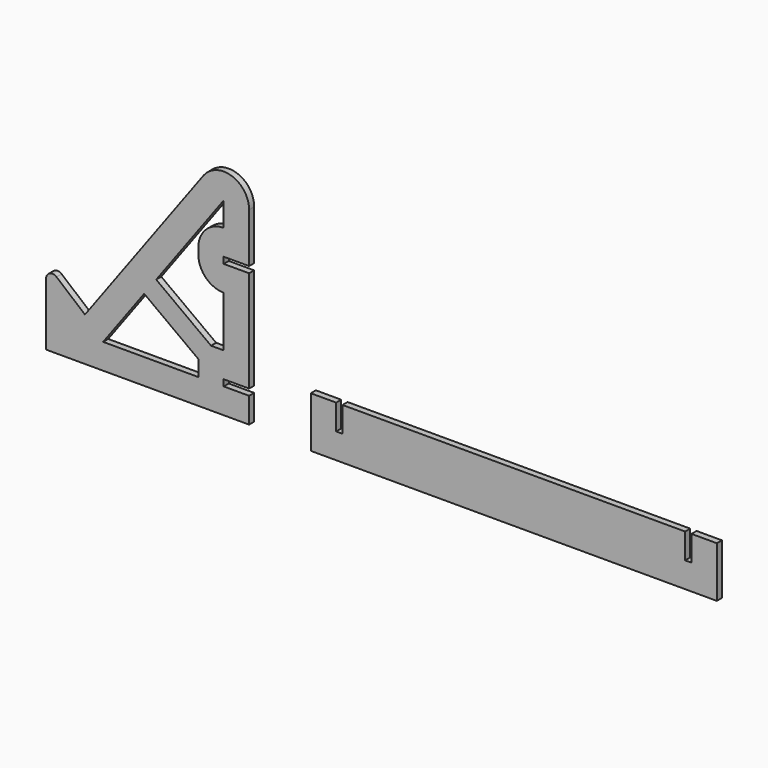
from build123d import *

# Parameters (mm, degrees)
F1_DEPTH = 1.5875
F3_DEPTH = 1.5875
F4_R     = 1.5875
F5_R     = 6.35


with BuildPart() as f1:
    # F0 (on Front) → F1 (new body)
    with BuildSketch(Plane.XZ):
        Polygon((-50.8, 0), (0, 0), (0, 6.35), (-6.35, 6.35), (-6.35, 7.9375), (0, 7.9375), (0, 33.3375), (-6.35, 33.3375), (-6.35, 34.925), (0, 34.925), (0, 66.675), (-41.071236, 10.886597), (-50.8, 19.05), align=None)
        with BuildLine():
            Line((-6.35, 26.9875), (-6.35, 14.2875))
            Line((-6.35, 14.2875), (-9.525, 14.2875))
            Line((-9.525, 14.2875), (-12.7, 14.2875))
            Line((-12.7, 14.2875), (-12.7, 10.31875))
            Line((-12.7, 10.31875), (-12.7, 6.35))
            Line((-12.7, 6.35), (-36.525842, 6.35))
            Line((-36.525842, 6.35), (-26.256588, 20.299065))
            Line((-26.256588, 20.299065), (-23.245804, 24.38871))
            Line((-23.245804, 24.38871), (-6.35, 47.338834))
            Line((-6.35, 47.338834), (-6.35, 41.275))
            ThreePointArc((-6.35, 41.275), (-10.840128, 39.415128), (-12.7, 34.925))
            Line((-12.7, 34.925), (-12.7, 33.3375))
            ThreePointArc((-12.7, 33.3375), (-10.840128, 28.847372), (-6.35, 26.9875))
        make_face(mode=Mode.SUBTRACT)
        Polygon((-12.7, 14.2875), (-9.525, 14.2875), (-23.245804, 24.38871), (-26.256588, 20.299065), (-12.7, 10.31875), align=None)
    extrude(amount=F1_DEPTH)

    # F4
    f4_edges = [f1.edges().sort_by_distance(p)[0] for p in [
        (-50.8, -0.79375, 19.05),
    ]]
    fillet(f4_edges, radius=F4_R)

    # F5
    f5_edges = [f1.edges().sort_by_distance(p)[0] for p in [
        (0, -0.79375, 66.675),
    ]]
    fillet(f5_edges, radius=F5_R)


with BuildPart() as f3:
    # F2 (on Front) → F3 (new body)
    with BuildSketch(Plane.XZ):
        Polygon((21.77861, 11.93424), (15.42861, 11.93424), (15.42861, -0.76576), (66.22861, -0.76576), (66.22861, 11.93424), (23.36611, 11.93424), (23.36611, 5.58424), (21.77861, 5.58424), align=None)
        Polygon((66.22861, 11.93424), (66.22861, -0.76576), (117.02861, -0.76576), (117.02861, 11.93424), (110.67861, 11.93424), (110.67861, 5.58424), (109.09111, 5.58424), (109.09111, 11.93424), align=None)
    extrude(amount=F3_DEPTH)


solid = Compound([f1.part, f3.part])
